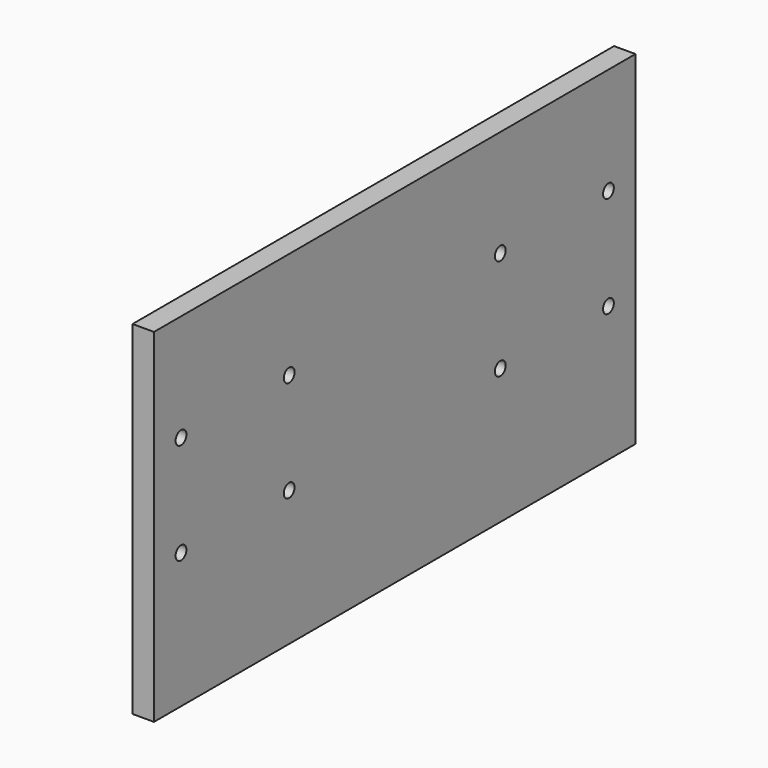
from build123d import *

# Parameters (mm, degrees)
F0_W     = 3.175
F0_H     = 50.8
F1_DEPTH = 89.05
F2_R     = 1
F3_DEPTH = 3.176


with BuildPart() as f1:
    # F0 (on Front) → F1 (new body)
    with BuildSketch(Plane.XZ):
        with Locations((1.5875, 0)):
            Rectangle(F0_W, F0_H)
    extrude(amount=F1_DEPTH)

    # F2 (on Right) → F3 (cut, through all)
    with BuildSketch(Plane.YZ):
        with Locations((-84.05, 9.6)):
            Circle(F2_R)
        with Locations((-64.05, 9.6)):
            Circle(F2_R)
        with Locations((-64.05, -5.4)):
            Circle(F2_R)
        with Locations((-84.05, -5.4)):
            Circle(F2_R)
        with Locations((-25, -5.4)):
            Circle(F2_R)
        with Locations((-25, 9.6)):
            Circle(F2_R)
        with Locations((-5, -5.4)):
            Circle(F2_R)
        with Locations((-5, 9.6)):
            Circle(F2_R)
    extrude(amount=F3_DEPTH, mode=Mode.SUBTRACT)


solid = f1.part
